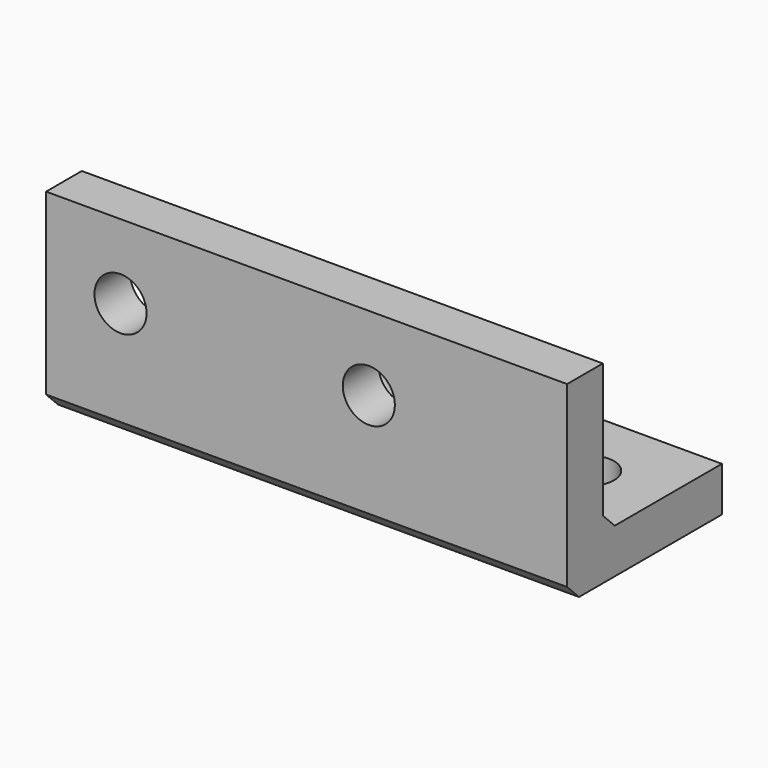
from build123d import *

# Parameters (mm, degrees)
F0_W     = 44.45
F0_H     = 16.51
F0_R     = 2.2225
F1_DEPTH = 3.81
F2_W     = 44.45
F2_H     = 12.7
F2_R     = 2.2225
F3_DEPTH = 3.81
F4_SIZE  = 1.27
F5_SIZE  = 1.27


with BuildPart() as f1:
    # F0 (on Top) → F1 (new body)
    with BuildSketch(Plane.XY):
        with Locations((22.225, 8.255)):
            Rectangle(F0_W, F0_H)
        with Locations((16.9164, 10.16)):
            Circle(F0_R, mode=Mode.SUBTRACT)
        with Locations((38.1, 10.16)):
            Circle(F0_R, mode=Mode.SUBTRACT)
    extrude(amount=F1_DEPTH)

    # F2 (on face) → F3 (join)
    with BuildSketch(Plane.XZ):
        with Locations((22.225, 10.16)):
            Rectangle(F2_W, F2_H)
        with Locations((6.35, 10.16)):
            Circle(F2_R, mode=Mode.SUBTRACT)
        with Locations((27.5336, 10.16)):
            Circle(F2_R, mode=Mode.SUBTRACT)
    extrude(amount=-F3_DEPTH)

    # F4
    f4_edges = [f1.edges().sort_by_distance(p)[0] for p in [
        (22.225, 0, 0),
    ]]
    chamfer(f4_edges, length=F4_SIZE)

    # F5
    f5_edges = [f1.edges().sort_by_distance(p)[0] for p in [
        (22.225, 3.81, 3.81),
    ]]
    chamfer(f5_edges, length=F5_SIZE)


solid = f1.part
